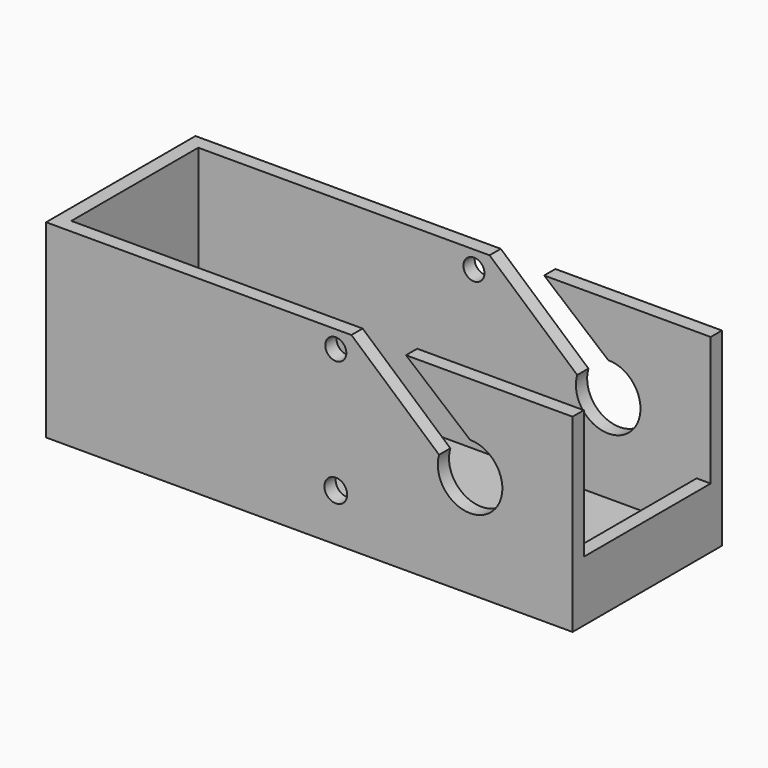
from build123d import *

# Parameters (mm, degrees)
F0_R     = 1.6228665853
F0_R_2   = 1.5
F0_W     = 2
F0_H     = 25
F1_DEPTH = 2
F2_DEPTH = 25.6
F3_DEPTH = 24.6


with BuildPart() as f1:
    # F0 (on Front) → F1 (new body)
    with BuildSketch(Plane.XZ):
        with BuildLine():
            Line((47.4890847677, -0.7248306477), (47.4890847677, 6.2918234199))
            Line((47.4890847677, 6.2918234199), (47.4890847677, 17.6555038384))
            Line((47.4890847677, 17.6555038384), (23.7640682912, 17.6555038384))
            Line((23.7640682912, 17.6555038384), (32.8890847677, 10.0022964448))
            ThreePointArc((32.8890847677, 10.0022964448), (35.6455609426, 1.7196562102), (28.4755586515, 6.6987482262))
            Line((28.4755586515, 6.6987482262), (15.9851853108, 17.6555038384))
            Line((15.9851853108, 17.6555038384), (-5.2803540298, 17.6555038384))
            Line((-5.2803540298, 17.6555038384), (-25.5109152323, 17.6555038384))
            Line((-25.5109152323, 17.6555038384), (-25.5109152323, -7.3444961616))
            Line((-25.5109152323, -7.3444961616), (1.1948530817, -7.3444961616))
            Line((1.1948530817, -7.3444961616), (45.4890847677, -7.3444961616))
            Line((45.4890847677, -7.3444961616), (45.4890847677, -0.7248306477))
            Line((45.4890847677, -0.7248306477), (47.4890847677, -0.7248306477))
        make_face()
        with Locations((13.761951353, -2.5673627469)):
            Circle(F0_R, mode=Mode.SUBTRACT)
        with Locations((13.761951353, 15.1555038384)):
            Circle(F0_R_2, mode=Mode.SUBTRACT)
        Polygon((47.4890847677, -9.3444961616), (47.4890847677, -0.7248306477), (45.4890847677, -0.7248306477), (45.4890847677, -7.3444961616), (45.4890847677, -9.3444961616), align=None)
        Polygon((5.9280249222, -9.3444961616), (45.4890847677, -9.3444961616), (45.4890847677, -7.3444961616), (1.1948530817, -7.3444961616), (-25.5109152323, -7.3444961616), (-27.5109152323, -7.3444961616), (-27.5109152323, -9.3444961616), align=None)
        with Locations((-26.5109152323, 5.1555038384)):
            Rectangle(F0_W, F0_H)
    extrude(amount=F1_DEPTH)

    # F0 (on Front) → F2 (join)
    with BuildSketch(Plane.XZ):
        Polygon((47.4890847677, -9.3444961616), (47.4890847677, -0.7248306477), (45.4890847677, -0.7248306477), (45.4890847677, -7.3444961616), (45.4890847677, -9.3444961616), align=None)
        Polygon((5.9280249222, -9.3444961616), (45.4890847677, -9.3444961616), (45.4890847677, -7.3444961616), (1.1948530817, -7.3444961616), (-25.5109152323, -7.3444961616), (-27.5109152323, -7.3444961616), (-27.5109152323, -9.3444961616), align=None)
        Polygon((5.9280249222, -9.3444961616), (45.4890847677, -9.3444961616), (45.4890847677, -7.3444961616), (1.1948530817, -7.3444961616), (-25.5109152323, -7.3444961616), (-27.5109152323, -7.3444961616), (-27.5109152323, -9.3444961616), align=None)
    extrude(amount=F2_DEPTH)

    # F0 (on Front) → F3 (join)
    with BuildSketch(Plane.XZ):
        with Locations((-26.5109152323, 5.1555038384)):
            Rectangle(F0_W, F0_H)
    extrude(amount=F3_DEPTH)

    # F5: F1 across plane


with BuildPart() as f1_1:
    add(f1.part)
    add(f1.part.mirror(Plane.XZ.offset(13.3)))


solid = f1_1.part
